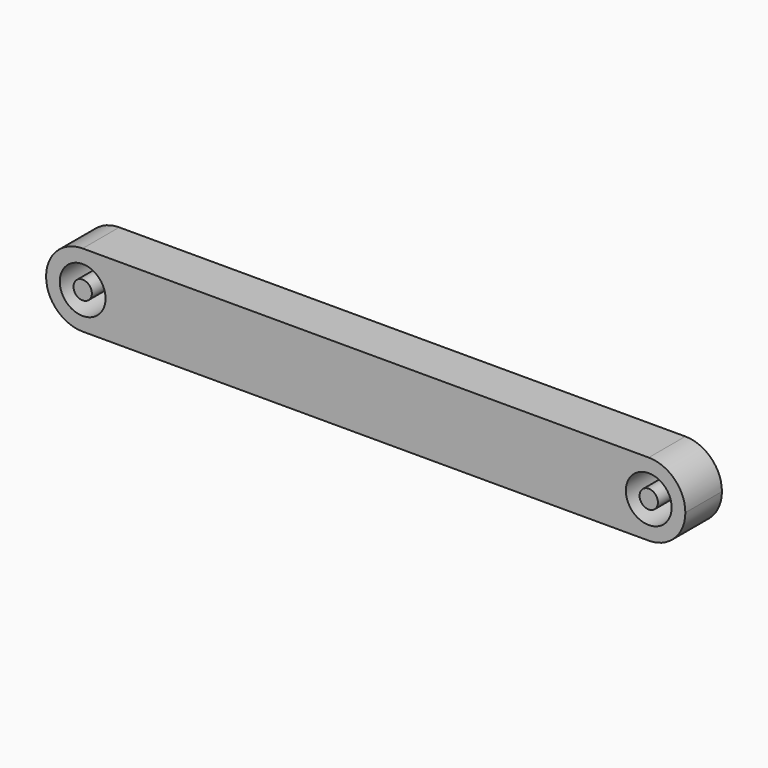
from build123d import *

# Parameters (mm, degrees)
F0_R     = 2.5019
F0_R_2   = 1.0033
F1_DEPTH = 5


with BuildPart() as f1:
    # F0 (on Front) → F1 (new body)
    with BuildSketch(Plane.XZ):
        with BuildLine():
            ThreePointArc((0, -4.0005), (2.828781, -2.828781), (4.0005, 0))
            ThreePointArc((4.0005, 0), (2.828781, 2.828781), (0, 4.0005))
            ThreePointArc((0, 4.0005), (-4.0005, 0), (0, -4.0005))
        make_face()
        Circle(F0_R, mode=Mode.SUBTRACT)
        with BuildLine():
            ThreePointArc((0, 4.0005), (2.828781, 2.828781), (4.0005, 0))
            ThreePointArc((4.0005, 0), (2.828781, -2.828781), (0, -4.0005))
            Line((0, -4.0005), (61.8998, -4.0005))
            ThreePointArc((61.8998, -4.0005), (57.8993, 0), (61.8998, 4.0005))
            Line((61.8998, 4.0005), (0, 4.0005))
        make_face()
        with BuildLine():
            ThreePointArc((65.9003, 0), (64.728581, 2.828781), (61.8998, 4.0005))
            ThreePointArc((61.8998, 4.0005), (57.8993, 0), (61.8998, -4.0005))
            ThreePointArc((61.8998, -4.0005), (64.728581, -2.828781), (65.9003, 0))
        make_face()
        with Locations((61.8998, 0)):
            Circle(F0_R, mode=Mode.SUBTRACT)
        Circle(F0_R_2)
        with Locations((61.8998, 0)):
            Circle(F0_R_2)
    extrude(amount=F1_DEPTH)


solid = f1.part
